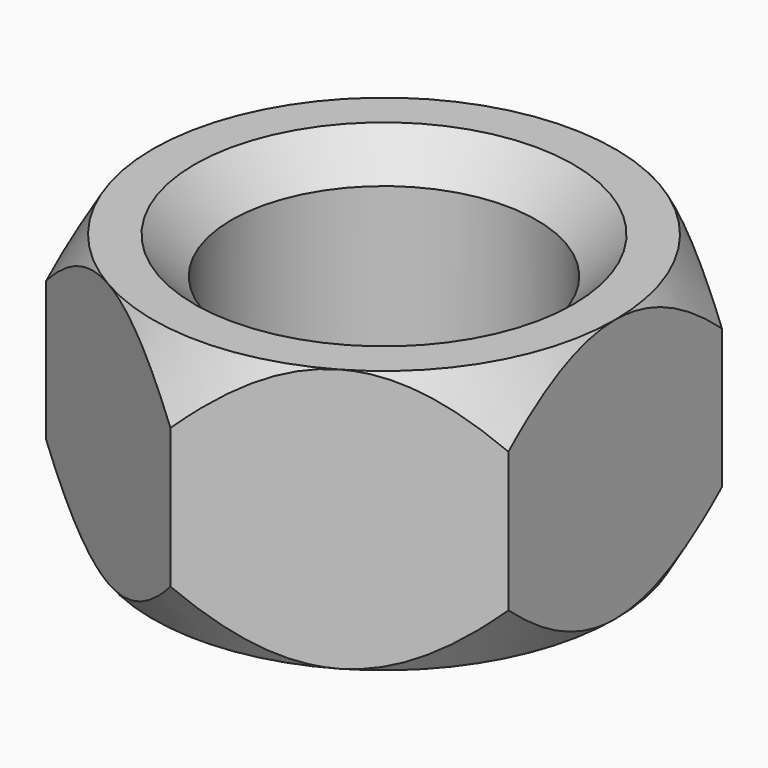
from build123d import *

# Parameters (mm, degrees)
SKETCH_R        = 4
PAD_DEPTH       = 6.91
CHAMFER_SIZE    = 0.9674
CHAMFER001_SIZE = 0.9674
GROOVE_ANGLE    = -360


with BuildPart() as part:
    # Sketch → Pad (new body)
    with BuildSketch(Plane.XY):
        Polygon((0, 7), (-6.062178, 3.5), (-6.062178, -3.5), (0, -7), (6.062178, -3.5), (6.062178, 3.5), align=None)
        Circle(SKETCH_R, mode=Mode.SUBTRACT)
    extrude(amount=PAD_DEPTH)

    # Chamfer
    chamfer_edges = [part.edges().sort_by_distance(p)[0] for p in [
        (-4, 0, 6.91),
    ]]
    chamfer(chamfer_edges, length=CHAMFER_SIZE)

    # Chamfer001
    chamfer001_edges = [part.edges().sort_by_distance(p)[0] for p in [
        (-4, 0, 0),
    ]]
    chamfer(chamfer001_edges, length=CHAMFER001_SIZE)

    # Sketch001 → Groove (revolve, symmetric, cut)
    with BuildSketch(Plane.YZ) as groove_sk:
        Polygon((-6.062178, 6.91), (-7, 6.91), (-7, 5.285644), align=None)
        Polygon((-7, 1.624356), (-7, 0), (-6.062178, 0), align=None)
    revolve(axis=Axis((0, 0, 0), (0, 0, 1)), revolution_arc=GROOVE_ANGLE / 2, mode=Mode.SUBTRACT)
    revolve(groove_sk.sketch, axis=Axis((0, 0, 0), (0, 0, -1)), revolution_arc=GROOVE_ANGLE / 2, mode=Mode.SUBTRACT)


solid = part.part
